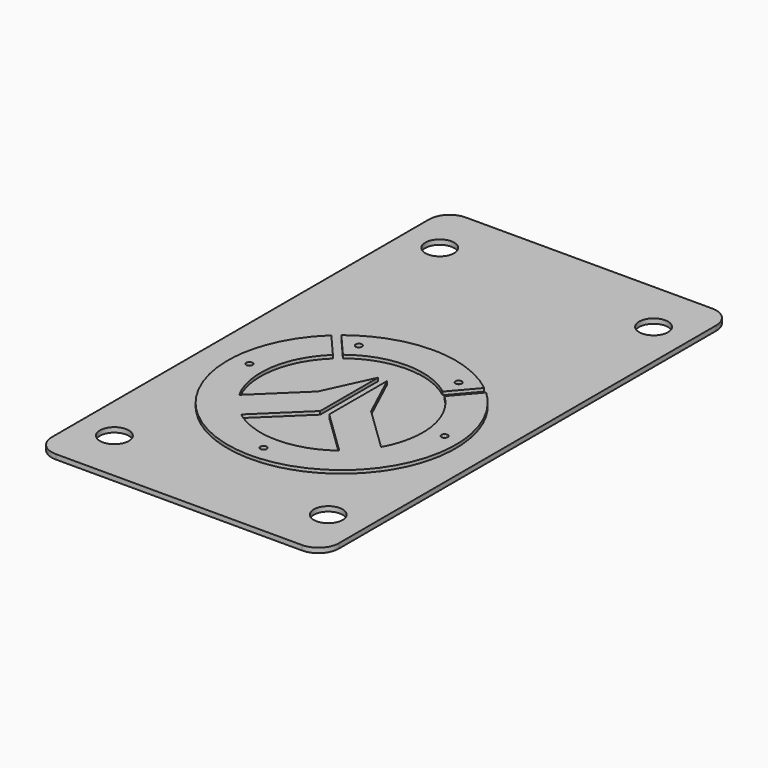
from build123d import *

# Parameters (mm, degrees)
F1_R     = 9
F2_DEPTH = 3
F0_R     = 2
F3_DEPTH = 5
F4_DEPTH = 5


with BuildPart() as f2:
    # F1 (on Top) → F2 (new body)
    with BuildSketch(Plane.XY):
        with BuildLine():
            ThreePointArc((76.4386732788, -130.3071677685), (85.4189293999, -126.5874238895), (89.1386732788, -117.6071677685))
            Line((89.1386732788, -117.6071677685), (89.1386732788, 176.8828322315))
            ThreePointArc((89.1386732788, 176.8828322315), (85.4189293999, 185.8630883526), (76.4386732788, 189.5828322315))
            Line((76.4386732788, 189.5828322315), (-77.3583267212, 189.5828322315))
            ThreePointArc((-77.3583267212, 189.5828322315), (-86.3385828423, 185.8630883526), (-90.0583267212, 176.8828322315))
            Line((-90.0583267212, 176.8828322315), (-90.0583267212, -117.6071677685))
            ThreePointArc((-90.0583267212, -117.6071677685), (-86.3385828423, -126.5874238895), (-77.3583267212, -130.3071677685))
            Line((-77.3583267212, -130.3071677685), (76.4386732788, -130.3071677685))
        make_face()
        with Locations((-67.1983267212, -97.2871677685)):
            Circle(F1_R, mode=Mode.SUBTRACT)
        with Locations((66.2786732788, -97.2871677685)):
            Circle(F1_R, mode=Mode.SUBTRACT)
        with Locations((-67.1983267212, 156.5628322315)):
            Circle(F1_R, mode=Mode.SUBTRACT)
        with Locations((66.2786732788, 156.5628322315)):
            Circle(F1_R, mode=Mode.SUBTRACT)
    extrude(amount=F2_DEPTH)

    # F0 (on Top) → F3 (join)
    with BuildSketch(Plane.XY):
        with BuildLine():
            add(Edge.make_bspline(
                [(44.5225109401, 51.6328074749), (31.7931699117, 61.9046377655), (15.5430863667, 67.5611001635), (-0.8466675809, 67.3154957518)],
                knots=[0, 0, 0, 0, 1, 1, 1, 1], degree=3))
            add(Edge.make_bspline(
                [(-0.8466675809, 67.3154957518), (-16.6914552758, 67.2139309121), (-32.3557233009, 61.5656679848), (-44.6624829203, 51.6328074749)],
                knots=[0, 0, 0, 0, 1, 1, 1, 1], degree=3))
            Line((-44.6624829203, 51.6328074749), (-31.2156959628, 36.0207258387))
            add(Edge.make_bspline(
                [(-31.2156959628, 36.0207258387), (-19.8668770846, 44.9768453315), (-4.5754724959, 48.626535939), (9.607211652, 45.8069907111)],
                knots=[0, 0, 0, 0, 1, 1, 1, 1], degree=3))
            add(Edge.make_bspline(
                [(9.607211652, 45.8069907111), (17.4015278884, 44.3075346269), (24.8181773865, 40.8851063357), (31.0757239826, 36.0207258387)],
                knots=[0, 0, 0, 0, 1, 1, 1, 1], degree=3))
            Line((31.0757239826, 36.0207258387), (44.5225109401, 51.6328074749))
        make_face()
        with Locations((-31.2156959628, 48.4397840007)):
            Circle(F0_R, mode=Mode.SUBTRACT)
        with Locations((31.0757239826, 48.4397840007)):
            Circle(F0_R, mode=Mode.SUBTRACT)
    extrude(amount=F3_DEPTH)

    # F0 (on Top) → F4 (join)
    with BuildSketch(Plane.XY):
        with BuildLine():
            add(Edge.make_bspline(
                [(-48.3654487285, 48.4397840007), (-48.5903470483, 48.2253463108), (-48.8152456845, 48.0109111522), (-49.0401417893, 47.7964712472)],
                knots=[0, 0, 0, 0, 1, 1, 1, 1], degree=3))
            add(Edge.make_bspline(
                [(-49.0401417893, 47.7964712472), (-63.2089023734, 34.4854490825), (-71.5164935114, 15.1358143832), (-71.2536124009, -4.3823817258)],
                knots=[0, 0, 0, 0, 1, 1, 1, 1], degree=3))
            add(Edge.make_bspline(
                [(-71.2536124009, -4.3823817258), (-71.2452113687, -24.6424367519), (-62.0032950914, -44.5436607549), (-46.6551817954, -57.7066801488)],
                knots=[0, 0, 0, 0, 1, 1, 1, 1], degree=3))
            add(Edge.make_bspline(
                [(-46.6551817954, -57.7066801488), (-32.4680977849, -70.1146960954), (-13.1730887798, -76.4354807885), (5.6641111211, -74.8365011098)],
                knots=[0, 0, 0, 0, 1, 1, 1, 1], degree=3))
            add(Edge.make_bspline(
                [(5.6641111211, -74.8365011098), (26.0758546138, -73.3164411383), (45.4498377508, -62.4142271403), (57.4270848419, -45.8498931001)],
                knots=[0, 0, 0, 0, 1, 1, 1, 1], degree=3))
            add(Edge.make_bspline(
                [(57.4270848419, -45.8498931001), (69.0851876389, -30.1089858288), (73.6526652184, -9.3511818312), (69.782774857, 9.8980318978)],
                knots=[0, 0, 0, 0, 1, 1, 1, 1], degree=3))
            add(Edge.make_bspline(
                [(69.782774857, 9.8980318978), (66.9379075577, 24.63337834), (59.2125294632, 38.289509842), (48.2254770647, 48.4397840007)],
                knots=[0, 0, 0, 0, 1, 1, 1, 1], degree=3))
            Line((48.2254770647, 48.4397840007), (34.7786901072, 32.8277023646))
            add(Edge.make_bspline(
                [(34.7786901072, 32.8277023646), (45.6135961749, 22.6148903531), (51.529750139, 7.5398526857), (50.4143066574, -7.3322188933)],
                knots=[0, 0, 0, 0, 1, 1, 1, 1], degree=3))
            add(Edge.make_bspline(
                [(50.4143066574, -7.3322188933), (49.9263728127, -14.7005793852), (47.7863498942, -21.9724011014), (44.1694752054, -28.4438325965)],
                knots=[0, 0, 0, 0, 1, 1, 1, 1], degree=3))
            Line((44.1694752054, -28.4438325965), (16.765956425, -1.9739032718))
            Line((16.765956425, -1.9739032718), (2.9398510008, 27.8290335048))
            Line((2.9398510008, 27.8290335048), (2.919062006, -17.3035535989))
            Line((2.919062006, -17.3035535989), (30.6128555902, -44.1029862757))
            add(Edge.make_bspline(
                [(30.6128555902, -44.1029862757), (18.2719055103, -53.691098487), (1.3390673943, -56.8712473399), (-13.6652661742, -52.6212601112)],
                knots=[0, 0, 0, 0, 1, 1, 1, 1], degree=3))
            add(Edge.make_bspline(
                [(-13.6652661742, -52.6212601112), (-19.7747362729, -50.9170276822), (-25.5600477213, -48.0575679008), (-30.5880749451, -44.220664643)],
                knots=[0, 0, 0, 0, 1, 1, 1, 1], degree=3))
            Line((-30.5880749451, -44.220664643), (-2.7059963529, -17.3035535989))
            add(Edge.make_bspline(
                [(-2.7059963529, -17.3035535989), (-2.7546011493, -2.6300403353), (-2.535721196, 13.2099469053), (-2.7061599436, 27.8775294516)],
                knots=[0, 0, 0, 0, 1, 1, 1, 1], degree=3))
            Line((-2.7061599436, 27.8775294516), (-16.5528929868, -1.9739029554))
            Line((-16.5528929868, -1.9739029554), (-44.1917691347, -28.6635004431))
            add(Edge.make_bspline(
                [(-44.1917691347, -28.6635004431), (-52.6237632628, -13.9439238932), (-52.8254617605, 5.0855102919), (-44.7095549634, 19.9693104078)],
                knots=[0, 0, 0, 0, 1, 1, 1, 1], degree=3))
            add(Edge.make_bspline(
                [(-44.7095549634, 19.9693104078), (-42.1723888347, 24.7374657043), (-38.8143418771, 29.0889415146), (-34.9186624038, 32.8277023646)],
                knots=[0, 0, 0, 0, 1, 1, 1, 1], degree=3))
            Line((-34.9186624038, 32.8277023646), (-48.3654487285, 48.4397840007))
        make_face()
        with Locations((0.0002132058, -64.9058073759)):
            Circle(F0_R, mode=Mode.SUBTRACT)
        with Locations((-60.7696250081, 0)):
            Circle(F0_R, mode=Mode.SUBTRACT)
        with Locations((61.1233077943, 0)):
            Circle(F0_R, mode=Mode.SUBTRACT)
    extrude(amount=F4_DEPTH)


solid = f2.part
